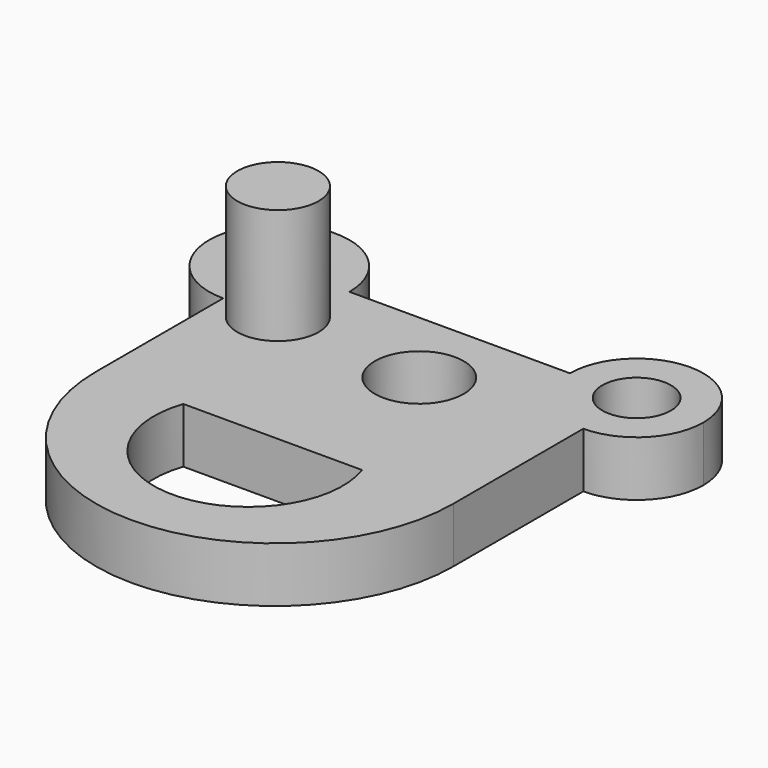
from build123d import *

# Parameters (mm, degrees)
F0_R     = 6.952096
F0_R_2   = 5.069947
F0_R_3   = 5.366015
F1_DEPTH = 8.636
F2_R     = 6.36514
F3_DEPTH = 26.67


with BuildPart() as f1:
    # F0 (on Top) → F1 (new body)
    with BuildSketch(Plane.XY):
        with BuildLine():
            Line((-18.34896, 1.396478), (-18.34896, -23.469599))
            Line((-18.34896, -23.469599), (-4.694264, -23.469599))
            Line((-4.694264, -23.469599), (23.26492, -23.469599))
            Line((23.26492, -23.469599), (37.551362, -23.469599))
            Line((37.551362, -23.469599), (37.551362, 1.948912))
            ThreePointArc((37.551362, 1.948912), (30.179089, 5.002607), (27.125394, 12.37488))
            Line((27.125394, 12.37488), (-7.370558, 12.37488))
            ThreePointArc((-7.370558, 12.37488), (-10.586058, 4.611977), (-18.34896, 1.396478))
        make_face()
        with Locations((13.447191, 0)):
            Circle(F0_R, mode=Mode.SUBTRACT)
        with BuildLine():
            Line((-4.694264, -23.469599), (-18.34896, -23.469599))
            ThreePointArc((-18.34896, -23.469599), (9.601201, -51.41976), (37.551362, -23.469599))
            Line((37.551362, -23.469599), (23.26492, -23.469599))
            ThreePointArc((23.26492, -23.469599), (9.285328, -43.01419), (-4.694264, -23.469599))
        make_face()
        with BuildLine():
            ThreePointArc((-7.370558, 12.37488), (-26.111863, 20.137782), (-18.34896, 1.396478))
            ThreePointArc((-18.34896, 1.396478), (-10.586058, 4.611977), (-7.370558, 12.37488))
        make_face()
        with Locations((-18.34896, 12.37488)):
            Circle(F0_R_2, mode=Mode.SUBTRACT)
        with BuildLine():
            ThreePointArc((27.125394, 12.37488), (30.179089, 5.002607), (37.551362, 1.948912))
            ThreePointArc((37.551362, 1.948912), (44.923635, 5.002607), (47.97733, 12.37488))
            ThreePointArc((47.97733, 12.37488), (37.551362, 22.800848), (27.125394, 12.37488))
        make_face()
        with Locations((37.551362, 12.37488)):
            Circle(F0_R_3, mode=Mode.SUBTRACT)
    extrude(amount=F1_DEPTH)

    # F2 (on Top) → F3 (join)
    with BuildSketch(Plane.XY):
        with Locations((-10.02792, 1.70688)):
            Circle(F2_R)
    extrude(amount=F3_DEPTH)


solid = f1.part
